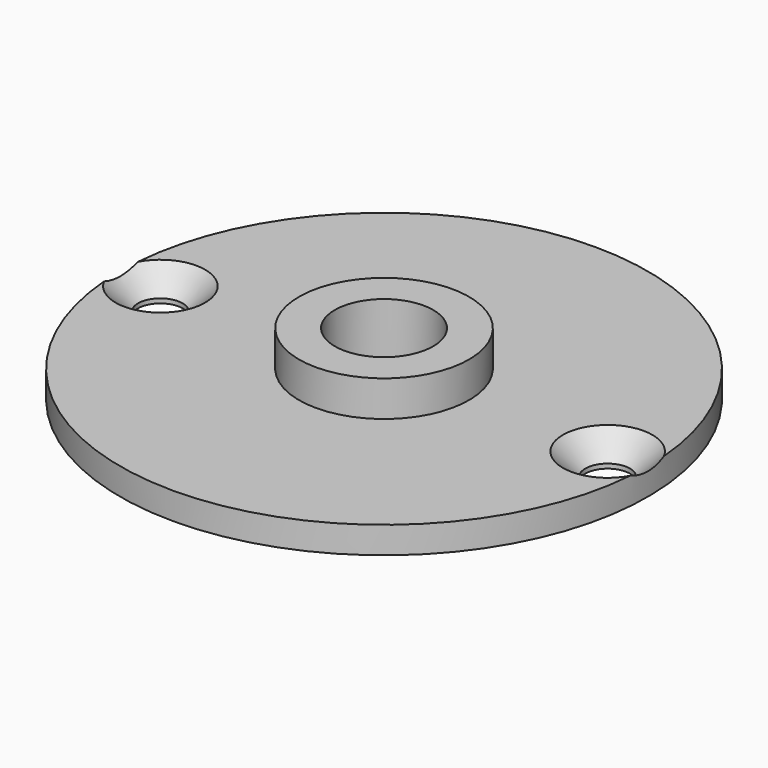
from build123d import *

# Parameters (mm, degrees)
F3_D           = 5
F3_CSINK_D     = 10
F3_CSINK_ANGLE = 90


with BuildPart() as f1:
    # F0 (on Right) → F1 (revolve)
    with BuildSketch(Plane.YZ):
        Polygon((-29.5, 3), (-29.5, 0), (-5.5, 0), (-5.5, 7), (-9.5, 7), (-9.5, 3), align=None)
    revolve(axis=Axis((0, 0, 10.817133), (0, 0, -1)))

    # F3 (through all)
    with Locations(Plane.XY.offset(3)):
        with Locations((-25, 0), (25, 0)):
            CounterSinkHole(F3_D / 2, F3_CSINK_D / 2, counter_sink_angle=F3_CSINK_ANGLE)


solid = f1.part
